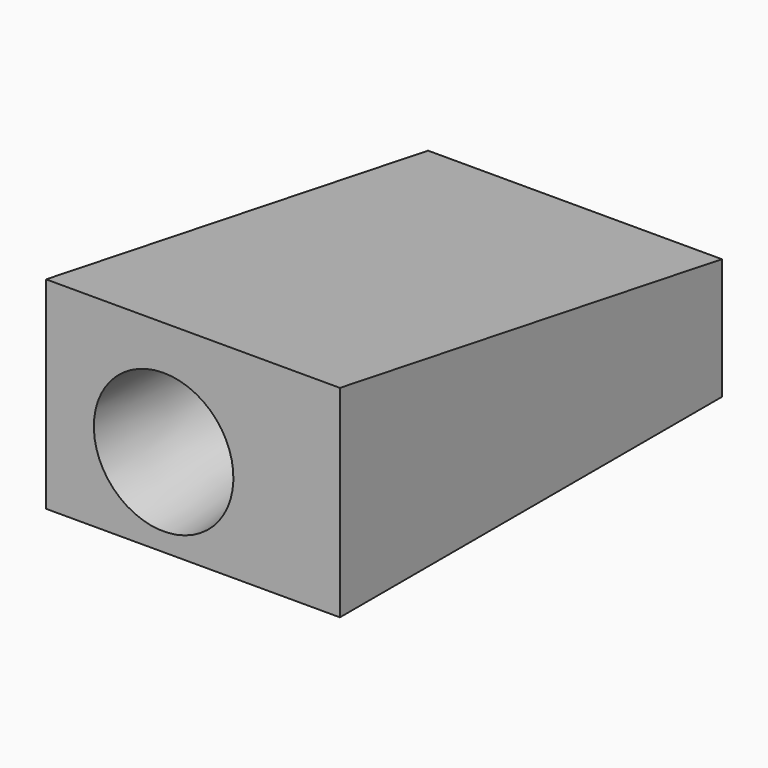
from build123d import *

# Parameters (mm, degrees)
F0_W     = 16
F0_H     = 11
F1_DEPTH = 26
F6_DEPTH = 19.82577


with BuildPart() as f1:
    # F0 (on Front) → F1 (new body)
    with BuildSketch(Plane.XZ):
        Rectangle(F0_W, F0_H)
    extrude(amount=-F1_DEPTH)

    # F4 (on offset) → F5 (revolve, cut)
    with BuildSketch(Plane(origin=(-1.6, 0, 0), x_dir=(0, -1, 0), z_dir=(-1, 0, 0))):
        Polygon((-26, -0.7), (0, -0.7), (0, 3.1), (-26, 0.8), align=None)
    revolve(axis=Axis((-1.6, 13, -0.7), (0, 1, 0)), mode=Mode.SUBTRACT)

    # F2 (on face) → F6 (cut)
    with BuildSketch(Plane(origin=(-8, 0, 0), x_dir=(0, -1, 0), z_dir=(-1, 0, 0))):
        Polygon((-26, 5.5), (-26, 1.1), (0, 5.5), align=None)
    extrude(amount=-F6_DEPTH, mode=Mode.SUBTRACT)


solid = f1.part
